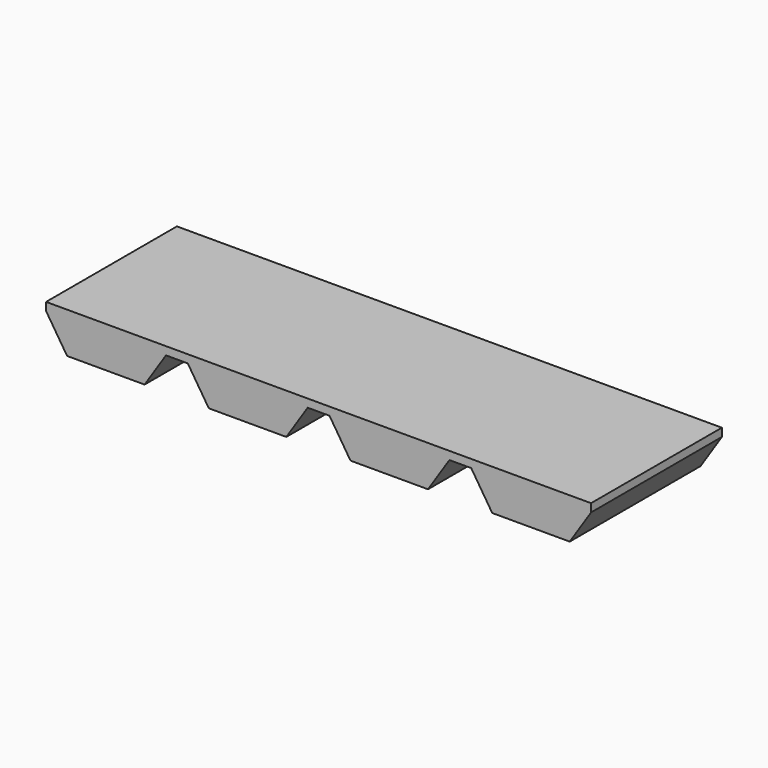
from build123d import *

# Parameters (mm, degrees)
F1_DEPTH = 38.1


with BuildPart() as f1:
    # F0 (on Front) → F1 (new body)
    with BuildSketch(Plane.XZ):
        Polygon((-35.56, 25.4), (-63.5, 25.4), (-58.603186, 17.78), (-40.54516, 17.78), align=None)
        Polygon((-2.54, 25.4), (-30.48, 25.4), (-25.583186, 17.78), (-7.52516, 17.78), align=None)
        Polygon((30.48, 25.4), (2.54, 25.4), (7.436814, 17.78), (25.49484, 17.78), align=None)
        Polygon((58.51484, 17.78), (63.5, 25.4), (35.56, 25.4), (40.456814, 17.78), align=None)
        Polygon((-63.5, 27.284326), (-63.5, 25.4), (-35.56, 25.4), (-30.48, 25.4), (-2.54, 25.4), (2.54, 25.4), (30.48, 25.4), (35.56, 25.4), (63.5, 25.4), (63.483231, 27.284326), align=None)
    extrude(amount=F1_DEPTH)


solid = f1.part
